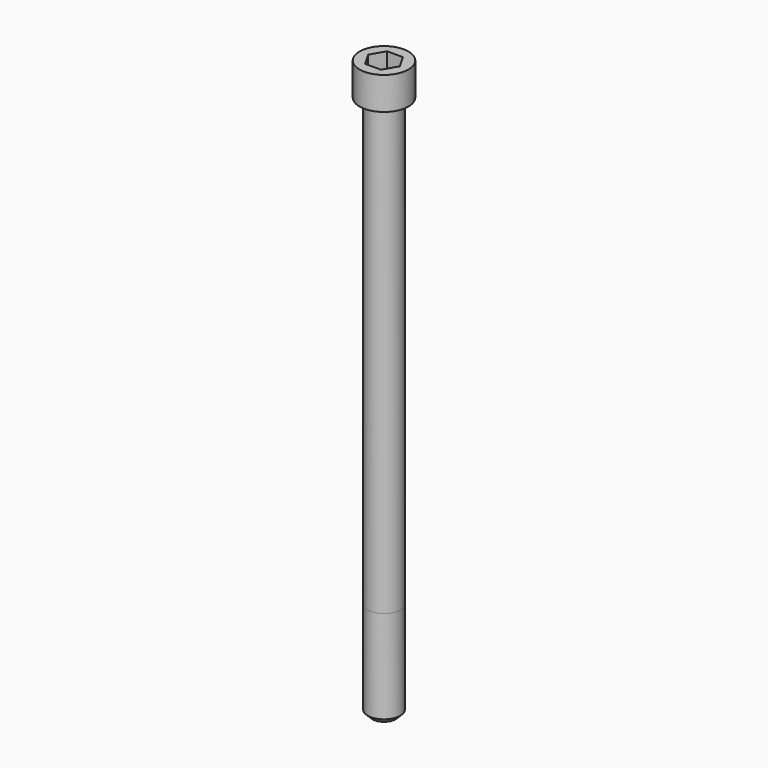
from build123d import *

# Parameters (mm, degrees)
POCKET_DEPTH = 10.07


with BuildPart() as part:
    # Sketch → Revolve (revolve)
    with BuildSketch(Plane.YZ):
        with BuildLine():
            Line((5.999, 0), (9, 0))
            Line((9, 0), (9, 11.97229))
            ThreePointArc((9, 11.97229), (8.991884, 11.991884), (8.97229, 12))
            Line((8.97229, 12), (0, 12))
            Line((0, -200), (0, 12))
            Line((4.25, -200), (0, -200))
            Line((6, -198.25), (4.25, -200))
            Line((6, -164), (6, -198.25))
            Line((5.999, 0), (6, -164))
        make_face()
    revolve(axis=Axis((0, 0, 0), (0, 0, 1)))

    # Sketch001 → Pocket (cut)
    with BuildSketch(Plane.XY.offset(12)):
        Polygon((5.813917, 0), (2.906959, 5.035), (-2.906959, 5.035), (-5.813917, 0), (-2.906959, -5.035), (2.906959, -5.035), align=None)
    extrude(amount=-POCKET_DEPTH, mode=Mode.SUBTRACT)


solid = part.part
